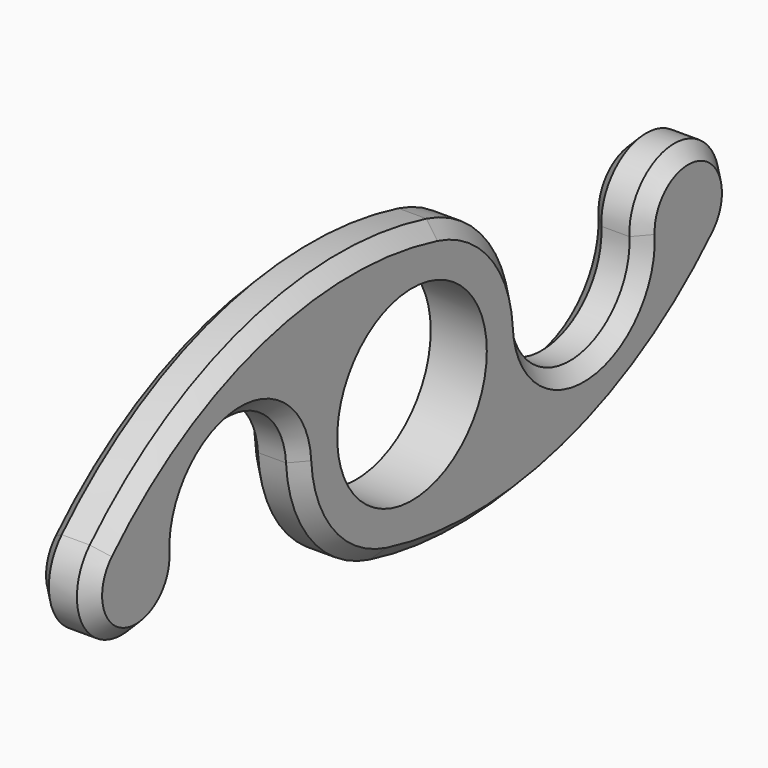
from build123d import *

# Parameters (mm, degrees)
F0_R     = 12.7
F1_DEPTH = 7.62
F2_SIZE  = 1.905


with BuildPart() as f1:
    # F0 (on Right) → F1 (new body)
    with BuildSketch(Plane.YZ):
        with BuildLine():
            ThreePointArc((-4.818668, -18.430489), (11.642742, -15.078099), (19.05, 0))
            ThreePointArc((19.05, 0), (19.042134, 0.547394), (19.018542, 1.094337))
            ThreePointArc((19.018542, 1.094337), (14.737323, 12.071198), (4.818668, 18.430489))
            ThreePointArc((4.818668, 18.430489), (-12.071198, 14.737323), (-19.018542, -1.094337))
            ThreePointArc((-19.018542, -1.094337), (-14.737323, -12.071198), (-4.818668, -18.430489))
        make_face()
        Circle(F0_R, mode=Mode.SUBTRACT)
        with BuildLine():
            ThreePointArc((19.018542, 1.094337), (19.042134, 0.547394), (19.05, 0))
            ThreePointArc((19.05, 0), (11.642742, -15.078099), (-4.818668, -18.430489))
            ThreePointArc((-4.818668, -18.430489), (25.888789, -18.218752), (52.350766, -2.638108))
            ThreePointArc((52.350766, -2.638108), (44.233214, -4.434102), (39.304986, 2.26163))
            ThreePointArc((39.304986, 2.26163), (29.74541, -8.465239), (19.018542, 1.094337))
        make_face()
        with BuildLine():
            ThreePointArc((-19.018542, -1.094337), (-12.071198, 14.737323), (4.818668, 18.430489))
            ThreePointArc((4.818668, 18.430489), (-25.888789, 18.218752), (-52.350766, 2.638108))
            ThreePointArc((-52.350766, 2.638108), (-44.233214, 4.434102), (-39.304986, -2.26163))
            ThreePointArc((-39.304986, -2.26163), (-29.74541, 8.465239), (-19.018542, -1.094337))
        make_face()
        with BuildLine():
            ThreePointArc((54.532403, 2.699364), (46.693445, 10.316218), (39.304986, 2.26163))
            ThreePointArc((39.304986, 2.26163), (44.233214, -4.434102), (52.350766, -2.638108))
            ThreePointArc((52.350766, -2.638108), (53.965938, -0.183696), (54.532403, 2.699364))
        make_face()
        with BuildLine():
            ThreePointArc((-39.304986, -2.26163), (-44.233214, 4.434102), (-52.350766, 2.638108))
            ThreePointArc((-52.350766, 2.638108), (-49.795463, -9.7529), (-39.292403, -2.699364))
            ThreePointArc((-39.292403, -2.699364), (-39.295549, -2.480406), (-39.304986, -2.26163))
        make_face()
    extrude(amount=F1_DEPTH)

    # F2
    f2_edges = [f1.edges().sort_by_distance(p)[0] for p in [
        (0, 25.888789, -18.218752),
        (0, 29.74541, -8.465239),
        (7.62, 25.888789, -18.218752),
    ]]
    chamfer(f2_edges, length=F2_SIZE)


solid = f1.part
